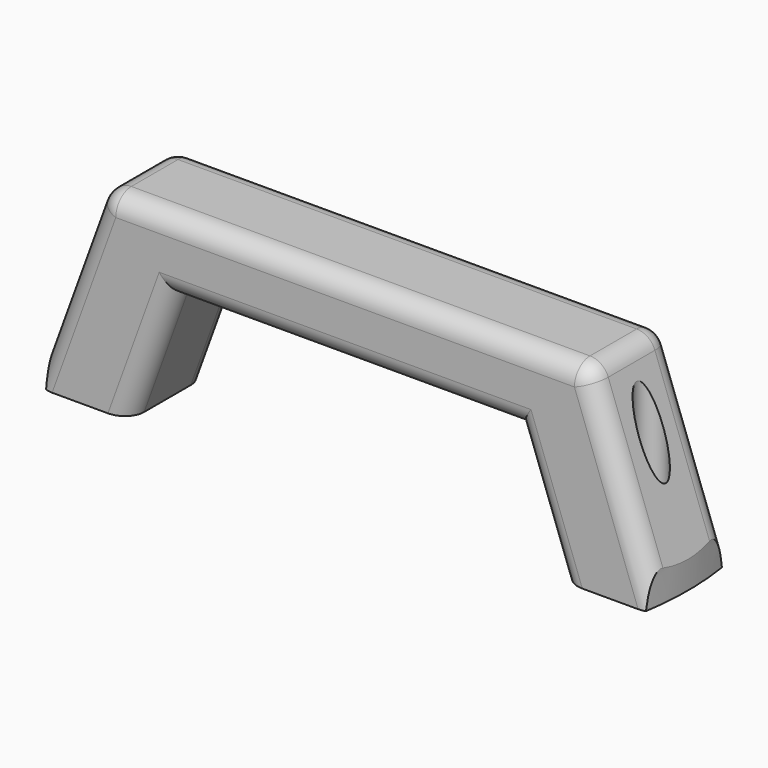
from build123d import *

# Parameters (mm, degrees)
F1_DEPTH = 25.4
F2_R     = 2.2225
F3_DEPTH = 33.353518
F4_R     = 5.08
F6_R     = 3.81
F7_DEPTH = 43.18
F8_R     = 88.709103
F8_R_2   = 79.375
F9_DEPTH = 25.4


with BuildPart() as f1:
    # F0 (on Front) → F1 (new body)
    with BuildSketch(Plane.XZ):
        Polygon((-63.5, 50.8), (-81.989688, 0), (-56.589688, 0), (-45.033633, 31.75), (45.033633, 31.75), (56.589688, 0), (81.989688, 0), (63.5, 50.8), align=None)
    extrude(amount=F1_DEPTH)

    # F2 (on face) → F3 (cut, through all)
    with BuildSketch(Plane(origin=(0, 0, 0), x_dir=(1, 0, 0), z_dir=(0, 0, -1))):
        with Locations((69.85, 12.7)):
            Circle(F2_R)
        with Locations((-69.85, 12.7)):
            Circle(F2_R)
    extrude(amount=-F3_DEPTH, mode=Mode.SUBTRACT)

    # F4
    f4_edges = [f1.edges().sort_by_distance(p)[0] for p in [
        (-72.744844, -25.4, 25.4),
        (-50.81166, -25.4, 15.875),
        (0, -25.4, 31.75),
        (50.81166, -25.4, 15.875),
        (72.744844, -25.4, 25.4),
        (0, -25.4, 50.8),
        (72.744844, 0, 25.4),
        (50.81166, 0, 15.875),
        (0, 0, 31.75),
        (-50.81166, 0, 15.875),
        (-72.744844, 0, 25.4),
        (0, 0, 50.8),
        (-63.5, -12.7, 50.8),
        (63.5, -12.7, 50.8),
    ]]
    fillet(f4_edges, radius=F4_R)

    # F6 (on offset) → F7 (cut, through all)
    with BuildSketch(Plane.XY.offset(7.62)):
        with Locations((-69.85, -12.7)):
            Circle(F6_R)
        with Locations((69.85, -12.7)):
            Circle(F6_R)
    extrude(amount=F7_DEPTH, mode=Mode.SUBTRACT)

    # F8 (on Top) → F9 (cut)
    with BuildSketch(Plane.XY):
        with Locations((0, -12.65686)):
            Circle(F8_R)
        with Locations((0, -12.65686)):
            Circle(F8_R_2, mode=Mode.SUBTRACT)
    extrude(amount=F9_DEPTH, mode=Mode.SUBTRACT)


solid = f1.part
